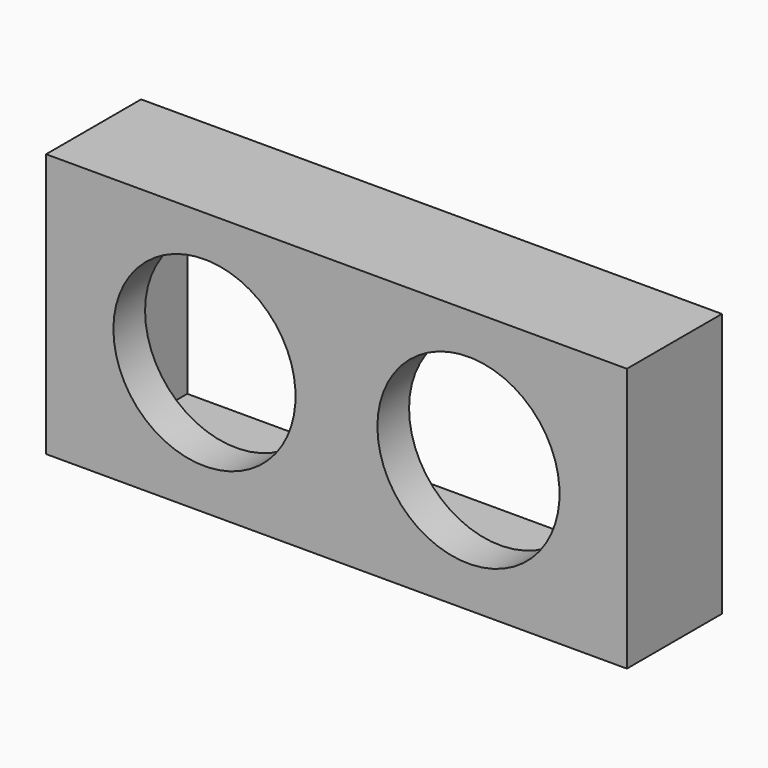
from build123d import *

# Parameters (mm, degrees)
F0_W     = 55.88
F0_H     = 25.4
F1_DEPTH = 11.43
F2_R     = 8.763
F3_DEPTH = 25.4
F4_W     = 46.736
F4_H     = 21.336
F4_R     = 8.763
F5_DEPTH = 7.62


with BuildPart() as f1:
    # F0 (on Front) → F1 (new body)
    with BuildSketch(Plane.XZ):
        with Locations((-6.981825, 4.291174)):
            Rectangle(F0_W, F0_H)
    extrude(amount=F1_DEPTH)

    # F2 (on face) → F3 (cut)
    with BuildSketch(Plane(origin=(0, 0, 0), x_dir=(-1, 0, 0), z_dir=(0, 1, 0))):
        with Locations((19.681825, 4.291174)):
            Circle(F2_R)
        with Locations((-5.718175, 4.291174)):
            Circle(F2_R)
    extrude(amount=-F3_DEPTH, mode=Mode.SUBTRACT)

    # F4 (on face) → F5 (cut)
    with BuildSketch(Plane(origin=(0, 0, 0), x_dir=(-1, 0, 0), z_dir=(0, 1, 0))):
        with Locations((7.108825, 4.164174)):
            Rectangle(F4_W, F4_H)
        with Locations((-5.718175, 4.291174)):
            Circle(F4_R, mode=Mode.SUBTRACT)
        with Locations((19.681825, 4.291174)):
            Circle(F4_R, mode=Mode.SUBTRACT)
    extrude(amount=-F5_DEPTH, mode=Mode.SUBTRACT)


solid = f1.part
